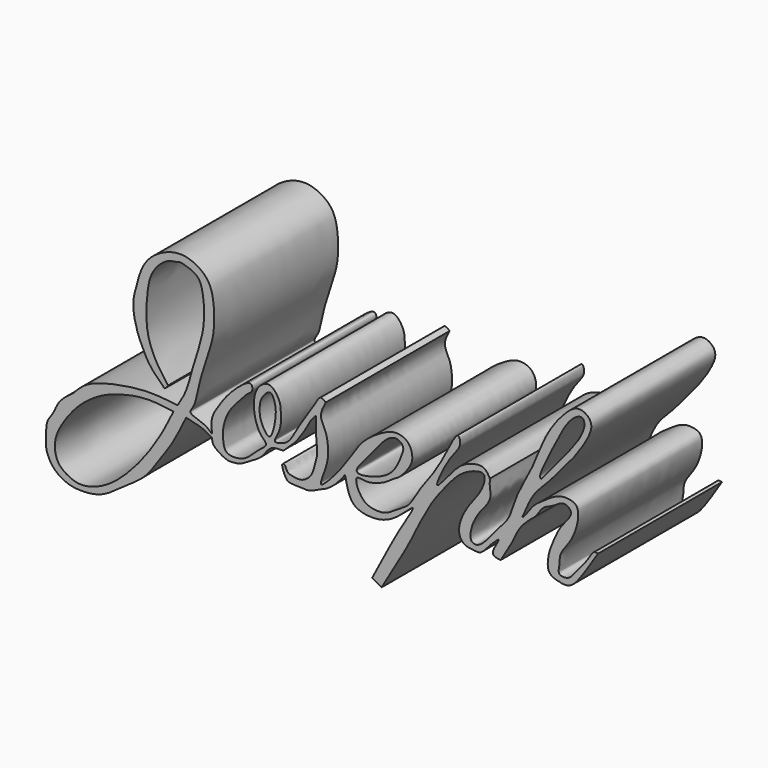
from build123d import *

# Parameters (mm, degrees)
F1_DEPTH = 25.4


with BuildPart() as f1:
    # F0 (on Front) → F1 (new body)
    with BuildSketch(Plane.XZ):
        with BuildLine():
            add(Edge.make_bspline(
                [(-23.5052537173, 3.7336028181), (-23.0002065712, 4.5592817769), (-21.9374838595, 6.2966795401), (-21.1145819574, 9.8480831028), (-20.3943584376, 12.0402077491), (-20.0378783047, 13.1252165884)],
                knots=[0, 0, 0, 0, 0.3138376267, 0.6603786918, 1, 1, 1, 1], degree=3))
            add(Edge.make_bspline(
                [(-23.5052537173, 3.7336028181), (-24.9898276779, 3.9262301294), (-28.1239694244, 4.3328931276), (-33.654346794, 3.5700523729), (-38.4708729275, 2.2121008672), (-39.9145369713, 0.6689028503), (-40.5402965844, 0)],
                knots=[0, 0, 0, 0, 0.2542883902, 0.5368380967, 0.7992413715, 1, 1, 1, 1], degree=3))
            add(Edge.make_bspline(
                [(-40.5402965844, 0), (-41.4751506182, -0.6938441427), (-43.149203302, -1.9363179483), (-43.7456681846, -3.980790251), (-44.8992970815, -5.2424101681), (-45.1132820859, -6.8424879657), (-45.0298112186, -8.5523199483), (-45.1479214995, -9.738338567), (-44.0243350996, -12.0307504186), (-41.962670206, -13.3764926769), (-39.6757817766, -13.8549057236), (-35.7653322655, -13.5567377818), (-32.3149282262, -10.6677925361), (-28.5954189524, -8.5052005986), (-26.3477857114, -4.6482350242), (-24.4277139464, -2.343167829), (-22.9500428858, 0.6927284408), (-22.1073962748, 2.4239579216)],
                knots=[0, 0, 0, 0, 0.0720606856, 0.129039807, 0.1799615823, 0.2303122014, 0.282127542, 0.325623964, 0.387667464, 0.4497476653, 0.5103153112, 0.5875731352, 0.6721313559, 0.7555970273, 0.8381309444, 0.9076936574, 1, 1, 1, 1], degree=3))
            add(Edge.make_bspline(
                [(-22.1073962748, 2.4239579216), (-21.150396648, 2.2253436417), (-19.4203876527, 1.8663001468), (-18.3409194148, 1.164150722), (-17.8585872054, 0.8504135767)],
                knots=[0, 0, 0, 0, 0.5531760987, 1, 1, 1, 1], degree=3))
            add(Edge.make_bspline(
                [(-17.8585872054, 0.8504135767), (-17.8442174892, 0.564291564), (-17.8105470723, -0.1061355539), (-16.4604902229, -1.0685725153), (-15.2272763834, -1.6455167939), (-14.4691472029, -1.5588792925), (-14.1135016456, -1.5182368224)],
                knots=[0, 0, 0, 0, 0.2124531305, 0.4978097934, 0.7644178321, 1, 1, 1, 1], degree=3))
            add(Edge.make_bspline(
                [(-14.1135016456, -1.5182368224), (-13.8556708819, -1.4986059175), (-13.2042493096, -1.4490075114), (-11.496010571, -0.3234139098), (-9.5741385916, 0.6191268657), (-8.3400713588, 3.0305903315), (-6.2436183146, 2.6835632506), (-5.8722669873, 3.1470797057), (-4.2618759454, 4.4822483951), (-3.2154683875, 6.1019094992), (-2.4716538153, 7.1316753166), (-1.587186467, 8.9191254129), (-1.0553246463, 9.4007218683), (-0.8334366721, 9.6016395837)],
                knots=[0, 0, 0, 0, 0.0668284762, 0.1688452938, 0.2768437567, 0.3904115239, 0.4855357416, 0.5382966361, 0.6416522879, 0.7435636891, 0.8266320359, 0.9276724426, 1, 1, 1, 1], degree=3))
            add(Edge.make_bspline(
                [(-0.8334366721, 9.6016395837), (-0.865368124, 8.8208890872), (-0.9319364474, 7.1932383353), (-0.4812914642, 4.065188948), (-0.8949928029, 3.2788069951), (-1.2670769478, 0.6460943128), (-3.1523838453, -0.5845864443), (-4.3394040476, -0.4132724604), (-5.6418030195, -0.2162592775), (-5.8066665209, 0.9427405906), (-6.5557425447, 0.9612957059), (-6.0530281582, -0.5030840152), (-5.471705188, -1.5776472573), (-3.7796601947, -1.4795215071), (-1.8844818306, -1.7539887783), (-0.4560587771, -0.8598216954), (0.8231060447, -0.4876960613), (2.557938247, 0.8123958195), (3.4689025476, 2.0065782848), (3.9356229827, 2.618401777)],
                knots=[0, 0, 0, 0, 0.0748056899, 0.1559493564, 0.2009304518, 0.2751370346, 0.3425307037, 0.3936974048, 0.4445503604, 0.4910798985, 0.5189398178, 0.5722384564, 0.623456427, 0.6817045429, 0.747041861, 0.806231812, 0.8603333786, 0.9284436654, 1, 1, 1, 1], degree=3))
            add(Edge.make_bspline(
                [(3.9356229827, 2.618401777), (4.1273331029, 1.6901955708), (4.4832919112, -0.0332563505), (5.7040899881, -1.8739610079), (9.460237881, -2.3544351121), (12.534844765, -0.8984591288), (16.2807154719, 2.9602090721), (12.3018339627, -3.1245878288), (10.0470779307, -7.7580919795), (8.8806400648, -9.8869306986), (8.3864638582, -10.7888402417)],
                knots=[0, 0, 0, 0, 0.1098007889, 0.2038732119, 0.326205029, 0.4582143506, 0.5721619597, 0.7154954859, 0.8794660516, 1, 1, 1, 1], degree=3))
            add(Edge.make_bspline(
                [(8.3864638582, -10.7888402417), (8.9005595073, -11.083504806), (9.4146551564, -11.3781693702), (9.9287508056, -11.6728339344)],
                knots=[0, 0, 0, 0, 1.7776652882, 1.7776652882, 1.7776652882, 1.7776652882], degree=3))
            add(Edge.make_bspline(
                [(9.9287508056, -11.6728339344), (11.6251042542, -8.814895563), (14.4939584905, -3.9815817211), (16.1622384824, -0.2179838855), (18.4655281477, 3.8174919207), (19.538182706, 5.0939585627), (21.9205218863, 8.2725088629), (24.1418264979, 9.8359494081), (27.4117452004, 10.742456209), (26.2991484568, 7.383865365), (24.8219671474, 5.710686472), (22.9753367245, 2.9604777933), (22.358079769, 0.176425029), (23.4849301825, -1.238631782), (24.8196269625, -1.3296530158), (26.2712975109, -1.6205381854), (27.4170385206, 0.0005945606), (30.0491256637, 2.4839001376), (27.3803994142, -1.1893876227), (28.8368077561, -1.3080406591), (29.4693205506, -1.3595712371)],
                knots=[0, 0, 0, 0, 0.1022835052, 0.1729807355, 0.2436377664, 0.2891553264, 0.3550796921, 0.4149443731, 0.4656118723, 0.5182987828, 0.5723295281, 0.6340842846, 0.6900712147, 0.7318509577, 0.7704854906, 0.8085956767, 0.8591240021, 0.9066116752, 0.9594417935, 1, 1, 1, 1], degree=3))
            add(Edge.make_bspline(
                [(29.4693205506, -1.3595712371), (30.1293070227, -0.2994427241), (31.3902509875, 1.7259967461), (32.5297728114, 4.6076823407), (34.3022596955, 6.0712542329), (35.2159924805, 6.8257385865)],
                knots=[0, 0, 0, 0, 0.3472926414, 0.6635235398, 1, 1, 1, 1], degree=3))
            add(Edge.make_bspline(
                [(35.2159924805, 6.8257385865), (35.6571272452, 7.5065308835), (36.4566691862, 8.7404440503), (37.9037655716, 8.9938465268), (39.8199361911, 10.666982211), (41.6442420158, 9.0290095102), (39.1545029241, 6.9390193229), (37.9252747145, 3.6842427304), (37.3942086057, 2.5733541065), (36.8123602255, -0.736690011), (38.9402949295, -1.4152101427), (40.9843283385, -1.736853398), (43.0178858873, 0.9805088485), (44.5563310804, 3.4023522414), (45.4061664641, 4.7401757911)],
                knots=[0, 0, 0, 0, 0.0805203148, 0.1459403654, 0.2273220032, 0.2923951779, 0.3832749671, 0.4844124048, 0.5486409885, 0.640146348, 0.7139937151, 0.7877674157, 0.8827629606, 1, 1, 1, 1], degree=3))
            add(Edge.make_bspline(
                [(45.4061664641, 4.7401757911), (45.1849290407, 4.8004710606), (44.5999047894, 4.9599115131), (43.7107087528, 3.1340200797), (42.4754545019, 1.8844326308), (41.2308489506, 0.1173557914), (40.4051299903, -0.4841787495), (39.3403586959, -0.5159064472), (38.834465584, -0.0031127512), (39.1535022502, 0.9035378537), (38.9999564115, 2.7770159687), (40.74794316, 4.6841816914), (41.7281357155, 6.7587709677), (42.1741492734, 8.4957523448), (42.1963609778, 9.7996866622), (41.7776466834, 10.8991445228), (39.9049020007, 11.236247331), (38.3851165247, 10.7832133406), (36.6186151671, 9.5951813559), (34.7769419587, 8.3578406086), (33.8463541025, 6.8137976165), (33.2296304944, 6.1449719915), (32.9445973039, 5.8358586393)],
                knots=[0, 0, 0, 0, 0.0330124961, 0.0872958585, 0.1441949091, 0.2031734957, 0.2439672439, 0.2839473261, 0.3145630101, 0.3522200251, 0.4065798199, 0.4712203834, 0.5334615094, 0.5876653901, 0.6335304069, 0.6746091258, 0.7277820485, 0.7792552085, 0.8384913948, 0.8994145653, 0.9535120968, 1, 1, 1, 1], degree=3))
            add(Edge.make_bspline(
                [(32.9445973039, 5.8358586393), (33.5629953678, 7.3029828102), (34.6712453427, 9.93226065), (36.7582706186, 11.8279586689), (39.1710377868, 14.6255435283), (41.4230983362, 17.2434612594), (43.1108555098, 19.6852483666), (44.8191547654, 22.8226680256), (43.5242000731, 24.4106761555), (41.8000764996, 24.866177056), (39.5072767133, 22.8712906486), (36.6419985908, 19.1028051389), (34.7402410111, 13.4242215767), (31.9739972728, 9.1115149938), (31.0474645748, 5.1049435451), (29.7752724101, 3.8303547932), (29.2136166245, 3.2676409464)],
                knots=[0, 0, 0, 0, 0.081646364, 0.1463209316, 0.2205116679, 0.2926410483, 0.3612819079, 0.4311834289, 0.4811324734, 0.5287182799, 0.5929853004, 0.6780751946, 0.7734535023, 0.8620251176, 0.9390859391, 1, 1, 1, 1], degree=3))
            add(Edge.make_bspline(
                [(29.2136166245, 3.2676409464), (28.4399935827, 2.268493658), (27.1162710731, 0.5588835706), (25.5360361425, -0.711762876), (24.2053368244, -0.1283337165), (24.7982745669, 2.325145919), (25.3190410413, 3.2609855834), (25.9671589615, 4.5251040322), (28.0882324933, 6.6911832989), (27.6067720922, 8.6145166092), (27.6560207198, 9.4424598864), (27.6778973639, 9.8102390766)],
                knots=[0, 0, 0, 0, 0.156437585, 0.2676755234, 0.3486194959, 0.472918969, 0.5608965878, 0.6584992212, 0.7990147609, 0.9107207094, 1, 1, 1, 1], degree=3))
            add(Edge.make_bspline(
                [(0.7698656409, 12.0381964371), (0.3654534542, 11.2786989437), (-0.4316950479, 9.7816315726), (0.9911198456, 7.7819765643), (1.2430518922, 4.99862501), (1.0145276342, 2.9096535683), (-0.6049660342, -0.8102916935), (1.4357860665, 1.0746098066), (3.2964999062, 3.2226442814), (5.2109761181, 6.1065763509), (6.8894511488, 8.6718218438), (9.8591806273, 10.653656988), (12.1942814746, 11.7123878894), (14.5847357693, 10.8780867287), (15.1310934315, 8.5975653787), (14.6310549353, 7.2007600816), (12.8419865083, 5.039253177), (11.9952285922, 4.7922218483), (10.5358551749, 3.5620305), (7.6382946622, 2.5124627917), (5.6028593711, 3.2278351721), (5.8634953259, 1.6772083654), (6.2759268649, 0.8453411467), (7.2963469378, -0.6976495543), (9.8080879997, -0.9536190986), (11.1954928095, -0.5194297024), (13.2247518026, 0.9430400779), (14.5414507748, 1.5632438523), (16.3628509865, 4.8941027979), (17.3978510932, 6.0916966937), (20.1028273325, 9.9833452778), (22.4619898896, 15.4743302182), (23.0743039609, 12.6564293919), (21.1845173512, 11.2605448587), (17.7418894147, 3.9808912988), (21.6859764485, 9.0444966382), (23.4695001155, 10.742322175), (26.7565798012, 11.557257164), (27.3969111306, 10.343049968), (27.6778973639, 9.8102390766)],
                knots=[0, 0, 0, 0, 0.0268778236, 0.0529796518, 0.0814479365, 0.1092488512, 0.1381699273, 0.1590893383, 0.1904405955, 0.2228601136, 0.2536098991, 0.2864306175, 0.31411201, 0.3399107399, 0.3648914937, 0.3867082478, 0.4152139412, 0.4314854982, 0.45501833, 0.4863629547, 0.5082471779, 0.5260285723, 0.5437750326, 0.5665984652, 0.5933302648, 0.6149147232, 0.6417164413, 0.6636079089, 0.6964719216, 0.7191452478, 0.7589519978, 0.7961074196, 0.8153882906, 0.8450619995, 0.884577312, 0.9170328929, 0.94817582, 0.9772588339, 1, 1, 1, 1], degree=3))
            add(Edge.make_bspline(
                [(-17.8585872054, 1.4397429768), (-17.9554829644, 2.2074095789), (-18.1569791836, 3.8037840687), (-16.5098464998, 6.2331762089), (-15.0637467735, 8.3759079449), (-11.3324360383, 11.6276531012), (-11.1381693492, 9.6335290435), (-12.0560624678, 9.2080928546), (-13.0441523558, 8.0215084507), (-15.1580609857, 5.9122772547), (-16.207267965, 2.881839452), (-16.0318975592, 0.9250949085), (-15.6783716188, -0.9049096803), (-12.3225503843, -0.7378554386), (-10.7050891948, 1.4268492064), (-8.4599461812, 2.7646576152), (-9.8772596825, 3.7189484034), (-10.5159861047, 5.0616823743), (-11.0799117085, 6.9035254408), (-11.0334222448, 10.4246039656), (-8.3086594143, 12.3155043238), (-6.6634736812, 9.7578786726), (-6.5966140426, 8.4249334804), (-6.4023499352, 5.6845237114), (-8.0607480232, 3.4807179169), (-6.5587870791, 3.7157105369), (-5.0979996321, 4.3775695761), (-3.8818942829, 6.922359885), (-1.8972949009, 9.735000869), (-0.8176059949, 11.6094826137), (-0.0487641207, 12.7572854524), (0.5041780946, 12.2715778814), (0.7698656409, 12.0381964371)],
                knots=[0, 0, 0, 0, 0.0352148582, 0.0732298385, 0.1142717798, 0.1598321452, 0.1824734952, 0.2047114682, 0.233181816, 0.273569531, 0.3148865976, 0.3475334591, 0.3756797516, 0.413787051, 0.4535930061, 0.4862123445, 0.5111497346, 0.5395511029, 0.5719706456, 0.6148837716, 0.6510468363, 0.6867110135, 0.7145341405, 0.7535230384, 0.7864771431, 0.8076884383, 0.8370947319, 0.8757092908, 0.9195343032, 0.9544585431, 0.9781174278, 1, 1, 1, 1], degree=3))
            add(Edge.make_bspline(
                [(-28.7411417812, 9.1737750918), (-29.1695419842, 10.0014386183), (-30.0909789032, 11.7816425598), (-31.0483032933, 15.7670175321), (-30.3427897183, 18.4989729308), (-29.1990694182, 23.0032932208), (-25.5350334618, 25.4586030954), (-22.1037313885, 26.0084308783), (-18.4814121094, 24.0401496298), (-17.4637593186, 20.6829567669), (-17.4308597442, 15.8795458247), (-18.4740646701, 12.9587720727), (-19.2728787604, 10.3897856539), (-20.1096005873, 7.7008471955), (-20.5486907696, 4.5752251384), (-22.0061527635, 3.1710557169), (-19.0397061978, 2.5454378079), (-18.2324752425, 1.7897551878), (-17.8585872054, 1.4397429768)],
                knots=[0, 0, 0, 0, 0.0611355651, 0.1314951915, 0.1917379341, 0.2666116378, 0.3392923016, 0.4042790474, 0.4724715521, 0.5379106089, 0.6154020079, 0.6781330614, 0.7354737334, 0.796047278, 0.8598540441, 0.8994490166, 0.9534274428, 1, 1, 1, 1], degree=3))
            add(Edge.make_bspline(
                [(-25.0702854246, 6.0945115983), (-25.275444854, 5.8027552945), (-25.6141469127, 5.3210886167), (-25.9254518941, 5.7749321744), (-26.265090268, 6.1192195128), (-27.5906838389, 7.349405532), (-28.4560777458, 8.6279259253), (-28.6635633912, 9.0252256633), (-28.7411417812, 9.1737750918)],
                knots=[0, 0, 0, 0, 0.1623611487, 0.2680454683, 0.3952750379, 0.6375091146, 0.8644655189, 1, 1, 1, 1], degree=3))
            add(Edge.make_bspline(
                [(-21.3631559163, 24.0436680615), (-22.0541983528, 24.2844157383), (-23.084607864, 24.6433932524), (-23.5040399649, 24.3286613126), (-25.3315823975, 24.2981749137), (-27.9670052813, 21.728765398), (-28.5418701205, 18.1431107943), (-28.8218442449, 13.0745041404), (-27.312946845, 9.111665767), (-25.8025647142, 7.0796801535), (-25.0702854246, 6.0945115983)],
                knots=[0, 0, 0, 0, 0.1010713468, 0.1507069198, 0.2464910806, 0.386254029, 0.5306978521, 0.7000145348, 0.8545579037, 1, 1, 1, 1], degree=3))
            add(Edge.make_bspline(
                [(-20.0378783047, 13.1252165884), (-19.7250503389, 14.2389859636), (-19.0877159182, 16.5081039365), (-19.1521769509, 20.172791246), (-19.7286428752, 23.2461004491), (-20.8727210207, 23.8043582616), (-21.3631559163, 24.0436680615)],
                knots=[0, 0, 0, 0, 0.2751990834, 0.5606718951, 0.8116721011, 1, 1, 1, 1], degree=3))
        make_face()
        with BuildLine():
            add(Edge.make_bspline(
                [(-24.1862908006, 2.618401777), (-25.6389477962, 2.8214318045), (-28.5133534789, 3.223171972), (-32.6888943724, 2.4247141148), (-36.3394843133, 1.1067578748), (-39.7165195166, -1.3934706534), (-42.0674542498, -4.3517586732), (-43.9352907075, -7.6702425487), (-43.4171685291, -10.9441393005), (-41.5932691376, -12.2767085172), (-39.2958551196, -13.2183460495), (-35.1668767488, -11.8970252472), (-31.4551901714, -8.5781781084), (-28.5173883922, -5.0418041162), (-26.2372784094, -1.4405667784), (-25.4243083488, 0.1554140564), (-25.0702854246, 0.8504135767)],
                knots=[0, 0, 0, 0, 0.078025032, 0.1543899186, 0.2278983092, 0.3036444863, 0.3766622723, 0.4487669872, 0.5132546804, 0.5672150188, 0.6239627011, 0.6994091055, 0.783177643, 0.8642269315, 0.9408750936, 1, 1, 1, 1], degree=3))
            add(Edge.make_bspline(
                [(-24.1862908006, 2.618401777), (-24.4809556752, 2.0290723769), (-24.7756205499, 1.4397429768), (-25.0702854246, 0.8504135767)],
                knots=[0, 0, 0, 0, 1.9766711339, 1.9766711339, 1.9766711339, 1.9766711339], degree=3))
        make_face(mode=Mode.SUBTRACT)
        with BuildLine():
            add(Edge.make_bspline(
                [(-8.4723904729, 4.1100042872), (-8.0130416194, 4.235294319), (-7.3493757608, 7.0537512877), (-7.386895041, 8.9529722002), (-8.1598717006, 11.0139243628), (-9.4929399365, 9.771130682), (-10.0716126404, 8.5850776417), (-10.1100332384, 6.5767324295), (-9.5762877381, 5.2006498726), (-8.7905683896, 4.0232194373), (-8.4723904729, 4.1100042872)],
                knots=[0, 0, 0, 0, 0.1587793104, 0.3044952308, 0.420854781, 0.5266135979, 0.6387176482, 0.7680315804, 0.8900180771, 1, 1, 1, 1], degree=3))
        make_face(mode=Mode.SUBTRACT)
        with BuildLine():
            add(Edge.make_bspline(
                [(5.886154715, 3.7336028181), (5.6289991024, 4.2553395514), (8.4273894804, 7.0663621485), (9.6335475082, 9.0698911492), (12.0656484316, 11.1311275686), (13.7377802673, 9.8504478821), (13.210341166, 8.4716229223), (12.2044395058, 5.7899093924), (9.7630692602, 3.9863500573), (6.1308350549, 3.2371768603), (5.886154715, 3.7336028181)],
                knots=[0, 0, 0, 0, 0.1492920759, 0.2828954543, 0.4085690114, 0.5017670752, 0.5888640231, 0.7156432775, 0.8579504623, 1, 1, 1, 1], degree=3))
        make_face(mode=Mode.SUBTRACT)
        with BuildLine():
            add(Edge.make_bspline(
                [(36.0982604325, 12.4494731426), (38.7841358658, 15.6104238264), (42.6802917418, 20.1957282777), (43.1031986211, 22.035497345), (43.2345680892, 22.6069930941)],
                knots=[0, 0, 0, 0, 0.6893654974, 1, 1, 1, 1], degree=3))
            add(Edge.make_bspline(
                [(43.2345680892, 22.6069930941), (43.1616840225, 22.9867712478), (43.0075037105, 23.7901610266), (41.466553587, 23.2756331466), (39.8692383315, 21.2759593635), (38.8655106022, 19.1581409906), (35.5211301322, 12.9192252054), (36.0007379735, 12.5288510166), (36.0982604325, 12.4494731426)],
                knots=[0, 0, 0, 0, 0.1150140625, 0.2433028897, 0.4239126793, 0.6232889507, 0.9234003603, 1, 1, 1, 1], degree=3))
        make_face(mode=Mode.SUBTRACT)
    extrude(amount=F1_DEPTH)


solid = f1.part
